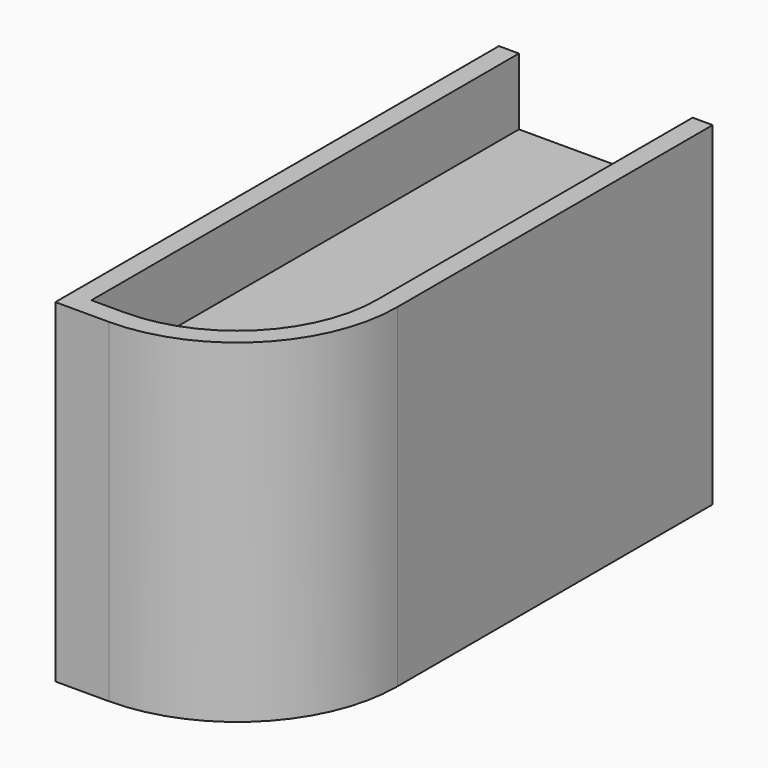
from build123d import *

# Parameters (mm, degrees)
PAD_DEPTH    = 50
POCKET_DEPTH = 10


with BuildPart() as part:
    # Sketch → Pad (new body)
    with BuildSketch(Plane.XY):
        with BuildLine():
            Line((0, 0), (8, 0))
            ThreePointArc((8, 0), (24.970563, 7.029437), (32, 24))
            Line((32, 24), (32, 83))
            Line((32, 83), (0, 83))
            Line((0, 83), (0, 0))
        make_face()
    extrude(amount=PAD_DEPTH)

    # Sketch001 (on Face7 of Pad) → Pocket (cut)
    with BuildSketch(Plane.XY.offset(50)):
        with BuildLine():
            Line((3, 84), (3, 3))
            Line((3, 3), (8, 3))
            ThreePointArc((8, 3), (22.849242, 9.150758), (29, 24))
            Line((29, 24), (29, 84))
            Line((29, 84), (3, 84))
        make_face()
    extrude(amount=-POCKET_DEPTH, mode=Mode.SUBTRACT)


solid = part.part
